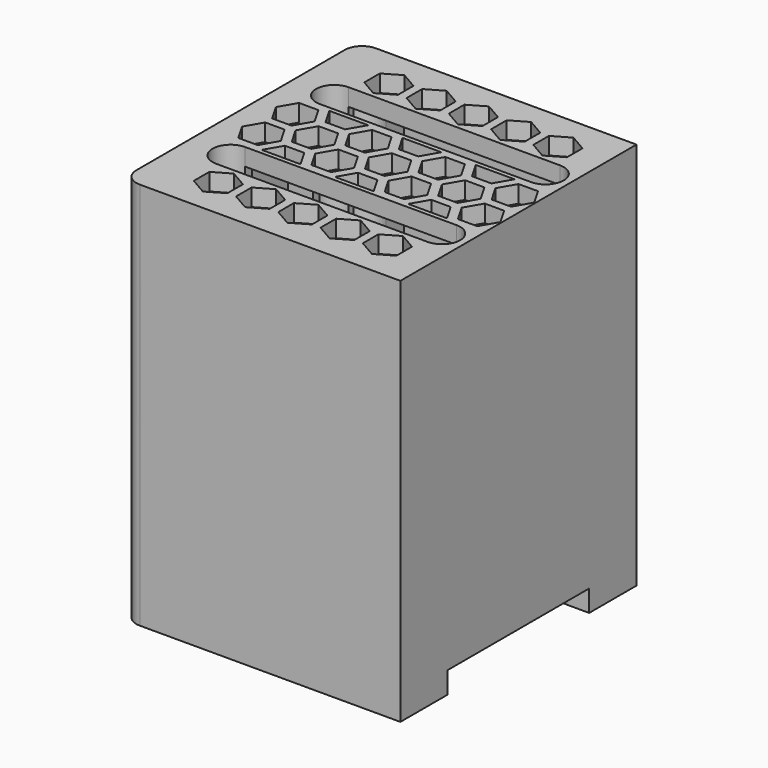
from build123d import *

# Parameters (mm, degrees)
SKETCH010_W     = 64.4
SKETCH010_H     = 68.4
PAD003_DEPTH    = 90
FILLET001_R     = 4
POCKET011_DEPTH = 5
SKETCH012_R     = 2.5
POCKET012_DEPTH = 4
SKETCH013_R     = 1.6
POCKET013_DEPTH = 2
POCKET014_DEPTH = 81
POCKET015_DEPTH = 4


with BuildPart() as part:
    # Sketch010 → Pad003 (new body)
    with BuildSketch(Plane.XY):
        with Locations((-2, 0)):
            Rectangle(SKETCH010_W, SKETCH010_H)
    extrude(amount=PAD003_DEPTH)

    # Fillet001
    fillet001_edges = [part.edges().sort_by_distance(p)[0] for p in [
        (-34.2, -34.2, 45),
        (-34.2, 34.2, 45),
    ]]
    fillet(fillet001_edges, radius=FILLET001_R)

    # Sketch011 (on Face2 of Fillet001) → Pocket011 (cut)
    with BuildSketch(Plane(origin=(0, 0, 0), x_dir=(1, 0, 0), z_dir=(0, 0, -1))):
        with BuildLine():
            Line((-20.5, -30.2), (20.5, -30.2))
            Line((20.5, -30.2), (20.5, -25))
            ThreePointArc((25, -20.5), (21.818019, -21.818019), (20.5, -25))
            Line((30.2, -20.5), (25, -20.5))
            Line((30.2, 20.5), (30.2, -20.5))
            Line((25, 20.5), (30.2, 20.5))
            ThreePointArc((20.5, 25), (21.818019, 21.818019), (25, 20.5))
            Line((20.5, 30.2), (20.5, 25))
            Line((20.5, 30.2), (-20.5, 30.2))
            Line((-20.5, 25), (-20.5, 30.2))
            ThreePointArc((-25, 20.5), (-21.818019, 21.818019), (-20.5, 25))
            Line((-30.2, 20.5), (-25, 20.5))
            Line((-30.2, -20.5), (-30.2, 20.5))
            Line((-25, -20.5), (-30.2, -20.5))
            ThreePointArc((-20.5, -25), (-21.818019, -21.818019), (-25, -20.5))
            Line((-20.5, -25), (-20.5, -30.2))
        make_face()
    extrude(amount=-POCKET011_DEPTH, mode=Mode.SUBTRACT)

    # Sketch012 (on Face2 of Pocket011) → Pocket012 (cut)
    with BuildSketch(Plane(origin=(0, 0, 0), x_dir=(1, 0, 0), z_dir=(0, 0, -1))):
        with Locations((-25, 25)):
            Circle(SKETCH012_R)
        with Locations((-25, -25)):
            Circle(SKETCH012_R)
        with Locations((25, -25)):
            Circle(SKETCH012_R)
        with Locations((25, 25)):
            Circle(SKETCH012_R)
    extrude(amount=-POCKET012_DEPTH, mode=Mode.SUBTRACT)

    # Sketch013 (on Face29 of Pocket012) → Pocket013 (cut)
    with BuildSketch(Plane(origin=(0, 0, 4), x_dir=(1, 0, 0), z_dir=(0, 0, -1))):
        with Locations((-25, 25)):
            Circle(SKETCH013_R)
        with Locations((-25, -25)):
            Circle(SKETCH013_R)
        with Locations((25, -25)):
            Circle(SKETCH013_R)
        with Locations((25, 25)):
            Circle(SKETCH013_R)
    extrude(amount=-POCKET013_DEPTH, mode=Mode.SUBTRACT)

    # Sketch014 (on Face28 of Pocket013) → Pocket014 (cut)
    with BuildSketch(Plane(origin=(0, 0, 5), x_dir=(1, 0, 0), z_dir=(0, 0, -1))):
        with BuildLine():
            Line((-20.5, -30.2), (20.5, -30.2))
            Line((20.5, -30.2), (20.5, -25))
            ThreePointArc((24.5, -20.527864), (21.645898, -22), (20.5, -25))
            Line((24.5, -20.527864), (24.5, -19.2))
            ThreePointArc((24.5, -19.2), (28.7, -15), (24.5, -10.8))
            Line((24.5, -10.8), (24.5, -8.8))
            Line((24.5, -8.8), (28.2, -8.8))
            Line((28.2, 8.8), (28.2, -8.8))
            Line((24.5, 8.8), (28.2, 8.8))
            Line((24.5, 10.8), (24.5, 8.8))
            ThreePointArc((24.5, 10.8), (28.7, 15), (24.5, 19.2))
            Line((24.5, 19.2), (24.5, 20.527864))
            ThreePointArc((20.5, 25), (21.645898, 22), (24.5, 20.527864))
            Line((20.5, 30.2), (20.5, 25))
            Line((20.5, 30.2), (-20.5, 30.2))
            Line((-20.5, 25), (-20.5, 30.2))
            ThreePointArc((-24.5, 20.527864), (-21.645898, 22), (-20.5, 25))
            Line((-24.5, 19.2), (-24.5, 20.527864))
            ThreePointArc((-24.5, 19.2), (-28.7, 15), (-24.5, 10.8))
            Line((-24.5, 8.8), (-24.5, 10.8))
            Line((-30.2, 8.8), (-24.5, 8.8))
            Line((-30.2, -8.8), (-30.2, 8.8))
            Line((-24.5, -8.8), (-30.2, -8.8))
            Line((-24.5, -10.8), (-24.5, -8.8))
            ThreePointArc((-24.5, -10.8), (-28.7, -15), (-24.5, -19.2))
            Line((-24.5, -20.527864), (-24.5, -19.2))
            ThreePointArc((-20.5, -25), (-21.645898, -22), (-24.5, -20.527864))
            Line((-20.5, -25), (-20.5, -30.2))
        make_face()
    extrude(amount=-POCKET014_DEPTH, mode=Mode.SUBTRACT)

    # Sketch015 (on Face5 of Pocket014) → Pocket015 (cut)
    with BuildSketch(Plane.XY.offset(90)):
        with BuildLine():
            ThreePointArc((-24.5, 19.2), (-28.7, 15), (-24.5, 10.8))
            Line((-24.5, 10.8), (24.5, 10.8))
            ThreePointArc((24.5, 10.8), (28.7, 15), (24.5, 19.2))
            Line((-24.5, 19.2), (24.5, 19.2))
        make_face()
        with BuildLine():
            ThreePointArc((-24.5, -10.8), (-28.7, -15), (-24.5, -19.2))
            Line((-24.5, -19.2), (24.5, -19.2))
            ThreePointArc((24.5, -19.2), (28.7, -15), (24.5, -10.8))
            Line((-24.5, -10.8), (24.5, -10.8))
        make_face()
        Polygon((2.25, -3.897114), (4.5, 0), (2.25, 3.897114), (-2.25, 3.897114), (-4.5, 0), (-2.25, -3.897114), align=None)
        Polygon((10.732051, -8.794229), (12.982051, -4.897114), (10.732051, -1), (6.232051, -1), (3.982051, -4.897114), (6.232051, -8.794229), align=None)
        Polygon((-6.232051, -8.794229), (-3.982051, -4.897114), (-6.232051, -1), (-10.732051, -1), (-12.982051, -4.897114), (-10.732051, -8.794229), align=None)
        Polygon((-6.232051, 1), (-3.982051, 4.897114), (-6.232051, 8.794229), (-10.732051, 8.794229), (-12.982051, 4.897114), (-10.732051, 1), align=None)
        Polygon((10.732051, 1), (12.982051, 4.897114), (10.732051, 8.794229), (6.232051, 8.794229), (3.982051, 4.897114), (6.232051, 1), align=None)
        Polygon((27.696152, 1), (29.946152, 4.897114), (27.696152, 8.794229), (23.196152, 8.794229), (20.946152, 4.897114), (23.196152, 1), align=None)
        Polygon((27.696152, -8.794229), (29.946152, -4.897114), (27.696152, -1), (23.196152, -1), (20.946152, -4.897114), (23.196152, -8.794229), align=None)
        Polygon((-14.714102, -3.897114), (-12.464102, 0), (-14.714102, 3.897114), (-19.214102, 3.897114), (-21.464102, 0), (-19.214102, -3.897114), align=None)
        Polygon((19.214102, -3.897114), (21.464102, 0), (19.214102, 3.897114), (14.714102, 3.897114), (12.464102, 0), (14.714102, -3.897114), align=None)
        Polygon((-23.196152, 1), (-20.946152, 4.897114), (-23.196152, 8.794229), (-27.696152, 8.794229), (-29.946152, 4.897114), (-27.696152, 1), align=None)
        Polygon((-23.196152, -8.794229), (-20.946152, -4.897114), (-23.196152, -1), (-27.696152, -1), (-29.946152, -4.897114), (-27.696152, -8.794229), align=None)
        Polygon((-14.714102, 5.897114), (-12.464102, 9.794229), (-21.464102, 9.794229), (-19.214102, 5.897114), align=None)
        Polygon((-12.464102, -9.794229), (-14.714102, -5.897114), (-19.214102, -5.897114), (-21.464102, -9.794229), align=None)
        Polygon((4.5, -9.794229), (2.25, -5.897114), (-2.25, -5.897114), (-4.5, -9.794229), align=None)
        Polygon((2.25, 5.897114), (4.5, 9.794229), (-4.5, 9.794229), (-2.25, 5.897114), align=None)
        Polygon((19.214102, 5.897114), (21.464102, 9.794229), (12.464102, 9.794229), (14.714102, 5.897114), align=None)
        Polygon((21.464102, -9.794229), (19.214102, -5.897114), (14.714102, -5.897114), (12.464102, -9.794229), align=None)
        Polygon((0, -29.2), (3.897114, -26.95), (3.897114, -22.45), (0, -20.2), (-3.897114, -22.45), (-3.897114, -26.95), align=None)
        Polygon((13.691343, -26.95), (13.691343, -22.45), (9.794229, -20.2), (5.897114, -22.45), (5.897114, -26.95), (9.794229, -29.2), align=None)
        Polygon((-9.794229, -29.2), (-5.897114, -26.95), (-5.897114, -22.45), (-9.794229, -20.2), (-13.691343, -22.45), (-13.691343, -26.95), align=None)
        Polygon((19.588457, -29.2), (23.485572, -26.95), (23.485572, -22.45), (19.588457, -20.2), (15.691343, -22.45), (15.691343, -26.95), align=None)
        Polygon((-19.588457, -29.2), (-15.691343, -26.95), (-15.691343, -22.45), (-19.588457, -20.2), (-23.485572, -22.45), (-23.485572, -26.95), align=None)
        Polygon((0, 29.2), (3.897114, 26.95), (3.897114, 22.45), (0, 20.2), (-3.897114, 22.45), (-3.897114, 26.95), align=None)
        Polygon((13.691343, 26.95), (13.691343, 22.45), (9.794229, 20.2), (5.897114, 22.45), (5.897114, 26.95), (9.794229, 29.2), align=None)
        Polygon((-9.794229, 29.2), (-5.897114, 26.95), (-5.897114, 22.45), (-9.794229, 20.2), (-13.691343, 22.45), (-13.691343, 26.95), align=None)
        Polygon((19.588457, 29.2), (23.485572, 26.95), (23.485572, 22.45), (19.588457, 20.2), (15.691343, 22.45), (15.691343, 26.95), align=None)
        Polygon((-19.588457, 29.2), (-15.691343, 26.95), (-15.691343, 22.45), (-19.588457, 20.2), (-23.485572, 22.45), (-23.485572, 26.95), align=None)
    extrude(amount=-POCKET015_DEPTH, mode=Mode.SUBTRACT)


solid = part.part
